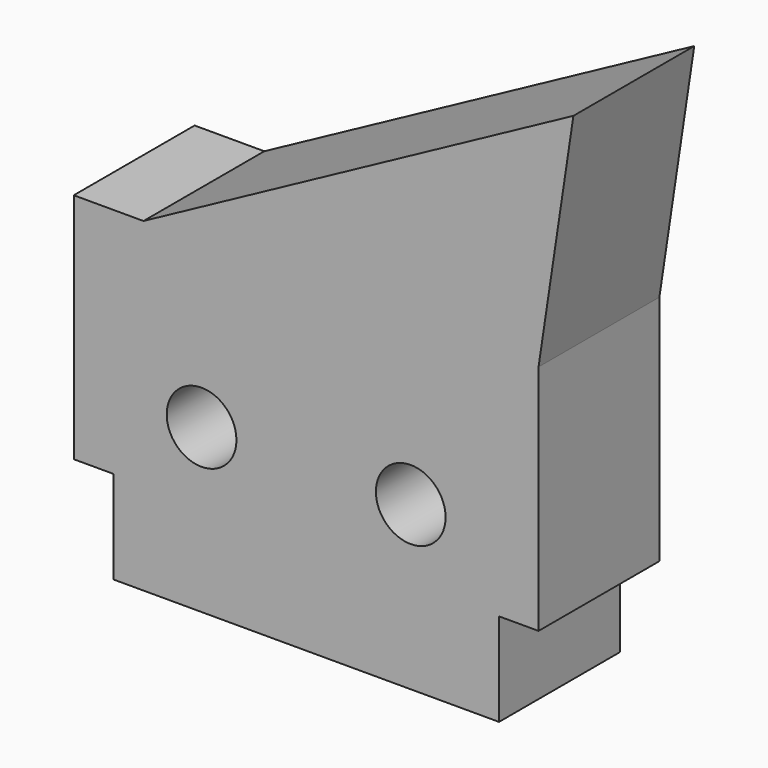
from build123d import *

# Parameters (mm, degrees)
F0_R     = 1.5
F0_W     = 16.6
F0_H     = 4
F1_DEPTH = 6.5


with BuildPart() as f1:
    # F0 (on Front) → F1 (new body)
    with BuildSketch(Plane.XZ):
        Polygon((0, 10), (0, 0), (1.7, 0), (18.3, 0), (20, 0), (20, 10), (3, 10), align=None)
        with Locations((5.5, 3)):
            Circle(F0_R, mode=Mode.SUBTRACT)
        with Locations((14.5, 3)):
            Circle(F0_R, mode=Mode.SUBTRACT)
        with Locations((10, -2)):
            Rectangle(F0_W, F0_H)
        Polygon((21.5, 20), (3, 10), (20, 10), align=None)
    extrude(amount=F1_DEPTH)


solid = f1.part
